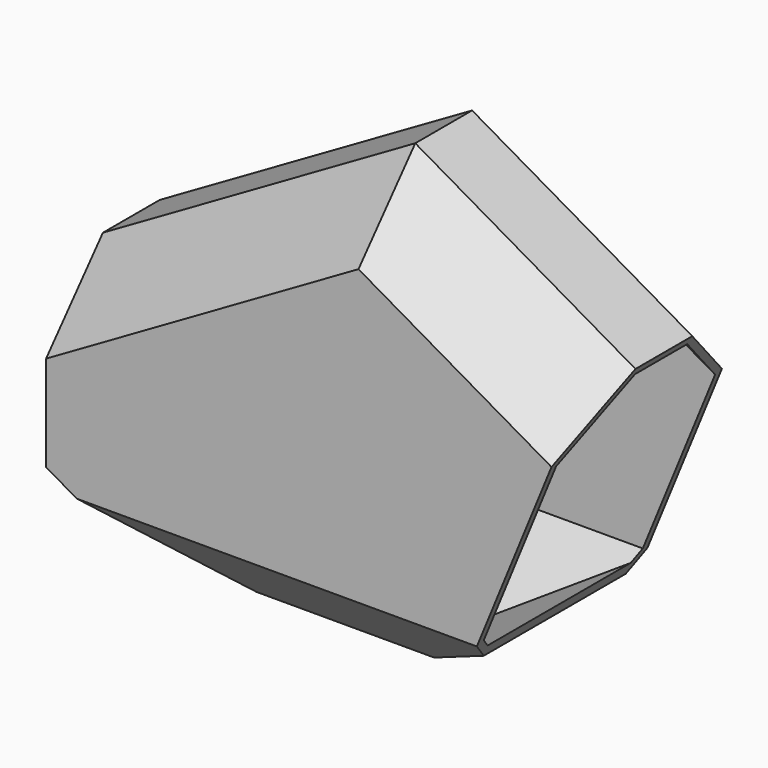
from build123d import *

# Parameters (mm, degrees)
F1_DEPTH = 30
F2_SIZE  = 20
F3_T     = -2


with BuildPart() as f1:
    # F0 (on Front) → F1 (new body, symmetric)
    with BuildSketch(Plane.XZ):
        Polygon((0, 25), (0, -25), (43.3012701892, -50), (93.3012701892, -50), (119.2820323028, -35), (150, 40), (87.9903810568, 75.8012701892), align=None)
    extrude(amount=F1_DEPTH, both=True)

    # F2
    f2_edges = [f1.edges().sort_by_distance(p)[0] for p in [
        (68.30127, -30, -50),
        (68.30127, 30, -50),
        (43.995191, -30, 50.400635),
        (118.995191, -30, 57.900635),
        (118.995191, 30, 57.900635),
        (43.995191, 30, 50.400635),
    ]]
    chamfer(f2_edges, length=F2_SIZE)

    # F3
    f3_openings = [f1.faces().sort_by_distance(p)[0] for p in [
        (133.563862, 0, -0.129945),
    ]]
    offset(amount=F3_T, openings=f3_openings)


solid = f1.part
